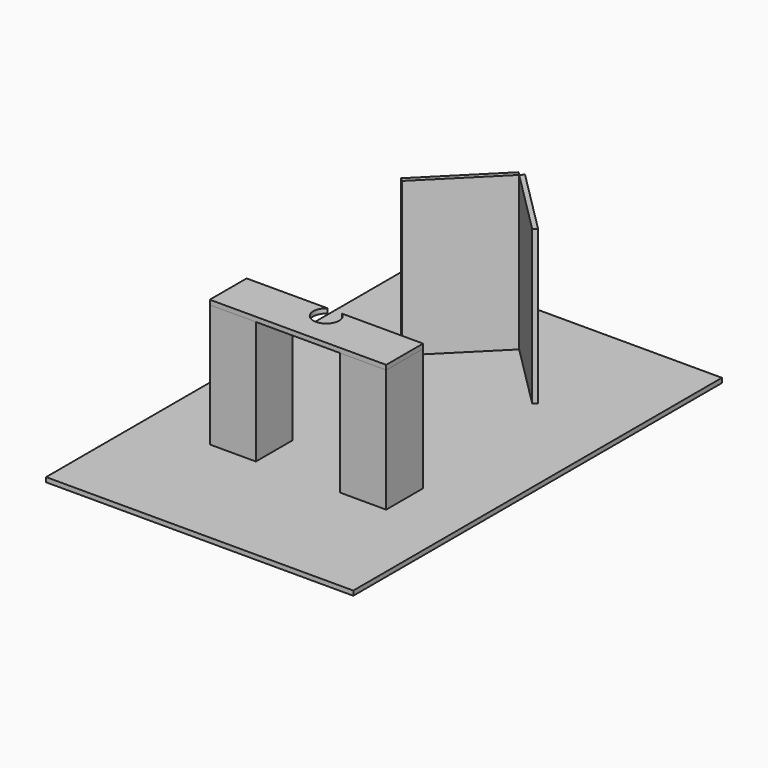
from build123d import *

# Parameters (mm, degrees)
F1_W     = 200
F1_H     = 300
F2_DEPTH = 3
F0_W     = 30
F0_H     = 30
F3_DEPTH = 80
F4_DEPTH = 100
F6_DEPTH = 3
F8_DEPTH = 25


with BuildPart() as f2:
    # F1 (on Top) → F2 (new body)
    with BuildSketch(Plane.XY):
        Rectangle(F1_W, F1_H)
    extrude(amount=-F2_DEPTH)


with BuildPart() as f3:
    # F0 (on Top) → F3 (new body)
    with BuildSketch(Plane.XY):
        with Locations((-42.426407, -55)):
            Rectangle(F0_W, F0_H)
        with Locations((42.426407, -55)):
            Rectangle(F0_W, F0_H)
    extrude(amount=F3_DEPTH)


with BuildPart() as f4:
    # F0 (on Top) → F4 (new body)
    with BuildSketch(Plane.XY):
        Polygon((-42.426407, 67.573593), (0, 110), (-2.12132, 112.12132), (-44.547727, 69.694913), align=None)
        Polygon((2.12132, 112.12132), (0, 110), (42.426407, 67.573593), (44.547727, 69.694913), align=None)
    extrude(amount=F4_DEPTH)


with BuildPart() as f6:
    # F5 (on face) → F6 (new body)
    with BuildSketch(Plane.XY.offset(80)):
        Polygon((-57.426407, -40), (-57.426407, -70), (-27.426407, -70), (27.426407, -70), (57.426407, -70), (57.426407, -40), (27.426407, -40), (-27.426407, -40), align=None)
        Polygon((-57.426407, -40), (-57.426407, -70), (-27.426407, -70), (27.426407, -70), (57.426407, -70), (57.426407, -40), (27.426407, -40), (-27.426407, -40), align=None)
    extrude(amount=F6_DEPTH)

    # F7 (on face) → F8 (cut)
    with BuildSketch(Plane.XY.offset(83)):
        with BuildLine():
            ThreePointArc((-4.643275, -40), (-3.972184, -54.40147), (8.4, -47))
            ThreePointArc((8.4, -47), (7.40147, -43.027816), (4.643275, -40))
            Line((4.643275, -40), (-4.643275, -40))
        make_face()
    extrude(amount=-F8_DEPTH, mode=Mode.SUBTRACT)


solid = Compound([f2.part, f3.part, f4.part, f6.part])
